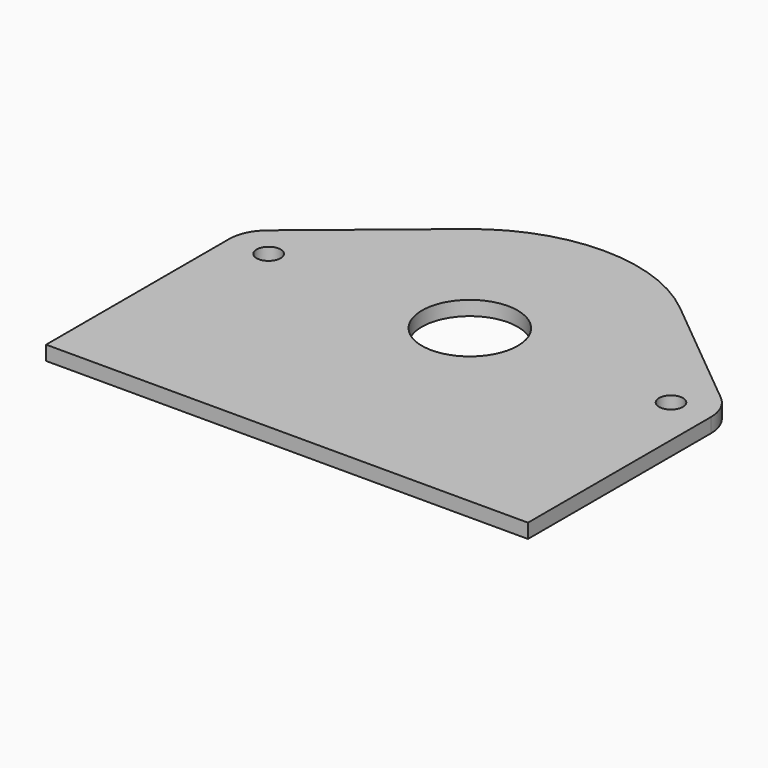
from build123d import *

# Parameters (mm, degrees)
F0_R     = 1.25
F0_R_2   = 5
F1_DEPTH = 0.75


with BuildPart() as f1:
    # F0 (on Top) → F1 (new body, symmetric)
    with BuildSketch(Plane.XY):
        with BuildLine():
            Line((23.638214, 3.203486), (11.125, 13.508678))
            ThreePointArc((11.125, 13.508678), (0, 17.5), (-11.125, 13.508678))
            Line((-11.125, 13.508678), (-23.638214, 3.203486))
            ThreePointArc((-23.638214, 3.203486), (-24.753071, 1.771145), (-25.15, 0))
            Line((-25.15, 0), (-25.15, -15.693022))
            Line((-25.15, -15.693022), (-25.15, -23.85))
            Line((-25.15, -23.85), (0, -23.85))
            Line((0, -23.85), (25.15, -23.85))
            Line((25.15, -23.85), (25.15, -15.693022))
            Line((25.15, -15.693022), (25.15, 0))
            ThreePointArc((25.15, 0), (24.753071, 1.771145), (23.638214, 3.203486))
        make_face()
        with Locations((-21, 0)):
            Circle(F0_R, mode=Mode.SUBTRACT)
        Circle(F0_R_2, mode=Mode.SUBTRACT)
        with Locations((21, 0)):
            Circle(F0_R, mode=Mode.SUBTRACT)
    extrude(amount=F1_DEPTH, both=True)


solid = f1.part
